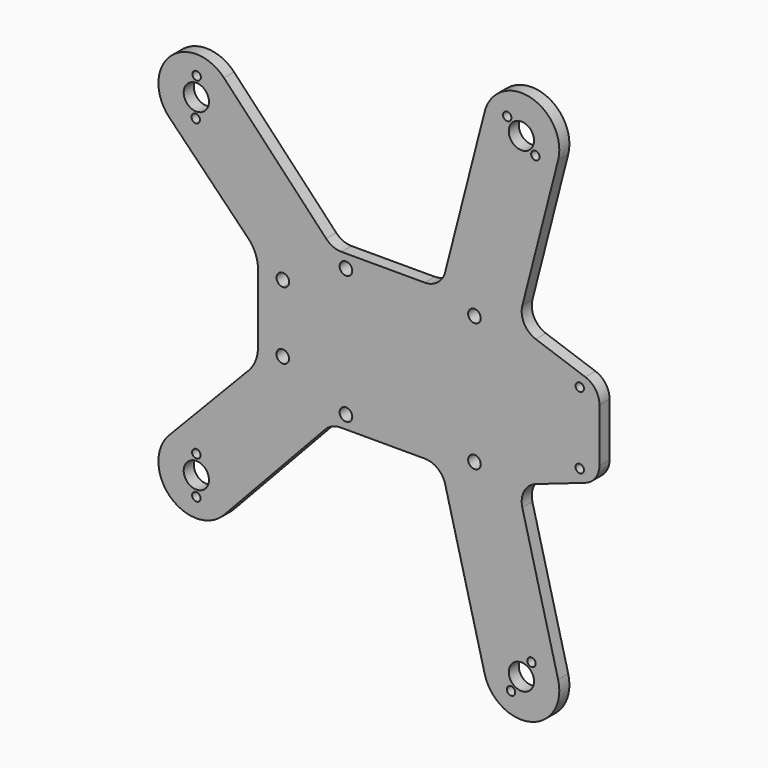
from build123d import *

# Parameters (mm, degrees)
F0_R     = 1
F0_R_2   = 3
F0_R_3   = 1.5
F1_DEPTH = 3


with BuildPart() as f1:
    # F0 (on Front) → F1 (new body)
    with BuildSketch(Plane.XZ):
        with BuildLine():
            Line((-23.863873, -18.387415), (-3.880417, -18.387415))
            ThreePointArc((-3.880417, -18.387415), (-0.814886, -19.437413), (0.963125, -22.146408))
            Line((0.963125, -22.146408), (10.337516, -58.733814))
            ThreePointArc((10.337516, -58.733814), (21.289706, -65.218376), (27.774267, -54.266186))
            Line((27.774267, -54.266186), (19.277183, -21.102826))
            ThreePointArc((19.277183, -21.102826), (19.715388, -17.496865), (22.478727, -15.139124))
            Line((22.478727, -15.139124), (34.22563, -11.054934))
            ThreePointArc((34.22563, -11.054934), (36.658555, -9.229653), (37.583633, -6.332239))
            Line((37.583633, -6.332239), (37.583633, -5.887415))
            Line((37.583633, -5.887415), (37.583633, 5.887415))
            Line((37.583633, 5.887415), (37.583633, 6.332239))
            ThreePointArc((37.583633, 6.332239), (36.658555, 9.229653), (34.22563, 11.054934))
            Line((34.22563, 11.054934), (22.478727, 15.139124))
            ThreePointArc((22.478727, 15.139124), (19.715388, 17.496865), (19.277183, 21.102826))
            Line((19.277183, 21.102826), (27.774267, 54.266186))
            ThreePointArc((27.774267, 54.266186), (21.289706, 65.218376), (10.337516, 58.733814))
            Line((10.337516, 58.733814), (0.963125, 22.146408))
            ThreePointArc((0.963125, 22.146408), (-0.814886, 19.437413), (-3.880417, 18.387415))
            Line((-3.880417, 18.387415), (-23.636704, 18.387415))
            ThreePointArc((-23.636704, 18.387415), (-25.616733, 18.796175), (-27.273019, 19.955621))
            Line((-27.273019, 19.955621), (-51.547948, 45.67723))
            ThreePointArc((-51.547948, 45.67723), (-64.326865, 45.991752), (-64.530968, 33.210594))
            Line((-64.530968, 33.210594), (-45.747828, 13.984717))
            ThreePointArc((-45.747828, 13.984717), (-44.061446, 11.412506), (-43.470186, 8.394134))
            Line((-43.470186, 8.394134), (-43.470186, -8.038917))
            ThreePointArc((-43.470186, -8.038917), (-44.047755, -11.023464), (-45.697065, -13.577065))
            Line((-45.697065, -13.577065), (-64.588075, -33.269584))
            ThreePointArc((-64.588075, -33.269584), (-64.281862, -46.034668), (-51.51901, -45.646423))
            Line((-51.51901, -45.646423), (-27.516265, -19.972736))
            ThreePointArc((-27.516265, -19.972736), (-25.854677, -18.800837), (-23.863873, -18.387415))
        make_face()
        with Locations((-58.093314, -44)):
            Circle(F0_R, mode=Mode.SUBTRACT)
        with Locations((-58.093314, -39.5)):
            Circle(F0_R_2, mode=Mode.SUBTRACT)
        with Locations((-58.093314, -35)):
            Circle(F0_R, mode=Mode.SUBTRACT)
        with BuildLine():
            ThreePointArc((-36.083633, -8), (-38.646085, -9.058865), (-37.578558, -6.500009))
            ThreePointArc((-37.578558, -6.500009), (-36.52118, -6.941135), (-36.083633, -8))
        make_face(mode=Mode.SUBTRACT)
        with Locations((-22.583633, -15.25)):
            Circle(F0_R_3, mode=Mode.SUBTRACT)
        with Locations((16.592031, -60.265553)):
            Circle(F0_R, mode=Mode.SUBTRACT)
        with Locations((19.055892, -56.5)):
            Circle(F0_R_2, mode=Mode.SUBTRACT)
        with Locations((21.446564, -52.687562)):
            Circle(F0_R, mode=Mode.SUBTRACT)
        with Locations((7.916367, -15.25)):
            Circle(F0_R_3, mode=Mode.SUBTRACT)
        with Locations((32.916367, -8.5)):
            Circle(F0_R, mode=Mode.SUBTRACT)
        with BuildLine():
            ThreePointArc((-37.55657, 5.322031), (-37.515348, 5.367937), (-37.473773, 5.413524))
            Line((-37.473773, 5.413524), (-37.55657, 5.321561))
            Line((-37.55657, 5.321561), (-37.583633, 5.291503))
            ThreePointArc((-37.583633, 5.291503), (-37.570121, 5.306784), (-37.55657, 5.322031))
        make_face(mode=Mode.SUBTRACT)
        with BuildLine():
            ThreePointArc((-36.05657, 8), (-36.49591, 6.93934), (-37.55657, 6.5))
            ThreePointArc((-37.55657, 6.5), (-38.61723, 9.06066), (-36.05657, 8))
        make_face(mode=Mode.SUBTRACT)
        with Locations((-22.583633, 15.25)):
            Circle(F0_R_3, mode=Mode.SUBTRACT)
        with Locations((-58.247652, 35.002647)):
            Circle(F0_R, mode=Mode.SUBTRACT)
        with Locations((-58.093314, 39.5)):
            Circle(F0_R_2, mode=Mode.SUBTRACT)
        with Locations((-58.015386, 43.999325)):
            Circle(F0_R, mode=Mode.SUBTRACT)
        with Locations((7.916367, 15.25)):
            Circle(F0_R_3, mode=Mode.SUBTRACT)
        with Locations((32.916367, 8.5)):
            Circle(F0_R, mode=Mode.SUBTRACT)
        with Locations((19.055892, 56.5)):
            Circle(F0_R_2, mode=Mode.SUBTRACT)
        with Locations((22.380625, 53.467484)):
            Circle(F0_R, mode=Mode.SUBTRACT)
        with Locations((15.694703, 59.492058)):
            Circle(F0_R, mode=Mode.SUBTRACT)
    extrude(amount=F1_DEPTH)


solid = f1.part
